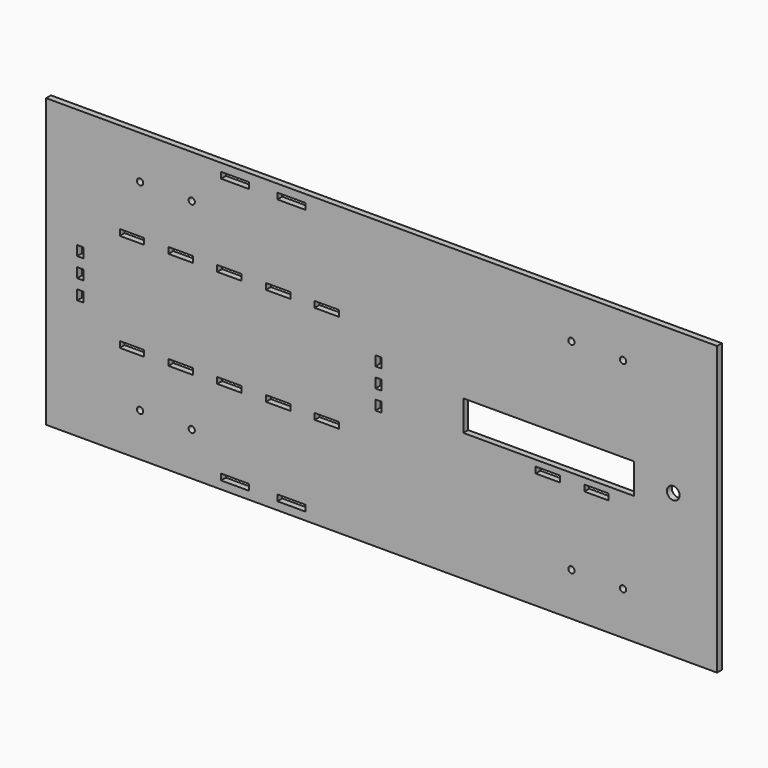
from build123d import *

# Parameters (mm, degrees)
F0_W     = 350
F0_H     = 150
F0_R     = 1.64084
F0_W_2   = 14.666667
F0_H_2   = 3.175
F0_W_3   = 12.7
F0_W_4   = 3.175
F0_H_3   = 5.08
F0_H_4   = 3.215846
F0_R_2   = 3.302
F1_DEPTH = 3.175


with BuildPart() as f1:
    # F0 (on Front) → F1 (new body)
    with BuildSketch(Plane.XZ):
        Rectangle(F0_W, F0_H)
        with Locations((-125.9747, -52.45)):
            Circle(F0_R, mode=Mode.SUBTRACT)
        with Locations((-99.0253, -52.45)):
            Circle(F0_R, mode=Mode.SUBTRACT)
        with Locations((-76.366667, -69.285)):
            Rectangle(F0_W_2, F0_H_2, mode=Mode.SUBTRACT)
        with Locations((-47.033333, -69.285)):
            Rectangle(F0_W_2, F0_H_2, mode=Mode.SUBTRACT)
        with Locations((-130.175, -25.590497)):
            Rectangle(F0_W_3, F0_H_2, mode=Mode.SUBTRACT)
        with Locations((-104.775, -25.590497)):
            Rectangle(F0_W_3, F0_H_2, mode=Mode.SUBTRACT)
        with Locations((-157.1625, -10.032997)):
            Rectangle(F0_W_4, F0_H_3, mode=Mode.SUBTRACT)
        with Locations((-79.375, -25.590497)):
            Rectangle(F0_W_3, F0_H_2, mode=Mode.SUBTRACT)
        with Locations((-53.975, -25.590497)):
            Rectangle(F0_W_3, F0_H_2, mode=Mode.SUBTRACT)
        with Locations((-28.575, -25.590497)):
            Rectangle(F0_W_3, F0_H_2, mode=Mode.SUBTRACT)
        with Locations((-1.5875, -10.032997)):
            Rectangle(F0_W_4, F0_H_3, mode=Mode.SUBTRACT)
        with Locations((99.0253, -52.45)):
            Circle(F0_R, mode=Mode.SUBTRACT)
        with Locations((125.9747, -52.45)):
            Circle(F0_R, mode=Mode.SUBTRACT)
        with Locations((86.7, -12.720423)):
            Rectangle(F0_W_3, F0_H_4, mode=Mode.SUBTRACT)
        with Locations((112.1, -12.720423)):
            Rectangle(F0_W_3, F0_H_4, mode=Mode.SUBTRACT)
        with Locations((-157.1625, 0.127003)):
            Rectangle(F0_W_4, F0_H_3, mode=Mode.SUBTRACT)
        with Locations((-157.1625, 10.287003)):
            Rectangle(F0_W_4, F0_H_3, mode=Mode.SUBTRACT)
        with Locations((-130.175, 25.844503)):
            Rectangle(F0_W_3, F0_H_2, mode=Mode.SUBTRACT)
        with Locations((-104.775, 25.844503)):
            Rectangle(F0_W_3, F0_H_2, mode=Mode.SUBTRACT)
        with Locations((-1.5875, 0.127003)):
            Rectangle(F0_W_4, F0_H_3, mode=Mode.SUBTRACT)
        with Locations((-1.5875, 10.287003)):
            Rectangle(F0_W_4, F0_H_3, mode=Mode.SUBTRACT)
        with Locations((-79.375, 25.844503)):
            Rectangle(F0_W_3, F0_H_2, mode=Mode.SUBTRACT)
        with Locations((-53.975, 25.844503)):
            Rectangle(F0_W_3, F0_H_2, mode=Mode.SUBTRACT)
        with Locations((-28.575, 25.844503)):
            Rectangle(F0_W_3, F0_H_2, mode=Mode.SUBTRACT)
        with Locations((-125.9747, 52.45)):
            Circle(F0_R, mode=Mode.SUBTRACT)
        with Locations((-99.0253, 52.45)):
            Circle(F0_R, mode=Mode.SUBTRACT)
        with Locations((-76.366667, 69.285)):
            Rectangle(F0_W_2, F0_H_2, mode=Mode.SUBTRACT)
        with Locations((-47.033333, 69.285)):
            Rectangle(F0_W_2, F0_H_2, mode=Mode.SUBTRACT)
        Polygon((131.55, 7.9375), (131.55, -7.9375), (93.45, -7.9375), (55.35, -7.9375), (42.65, -7.9375), (42.65, 7.9375), (55.35, 7.9375), (93.45, 7.9375), align=None, mode=Mode.SUBTRACT)
        with Locations((152.14, 0)):
            Circle(F0_R_2, mode=Mode.SUBTRACT)
        with Locations((99.0253, 52.45)):
            Circle(F0_R, mode=Mode.SUBTRACT)
        with Locations((125.9747, 52.45)):
            Circle(F0_R, mode=Mode.SUBTRACT)
    extrude(amount=F1_DEPTH)


solid = f1.part
